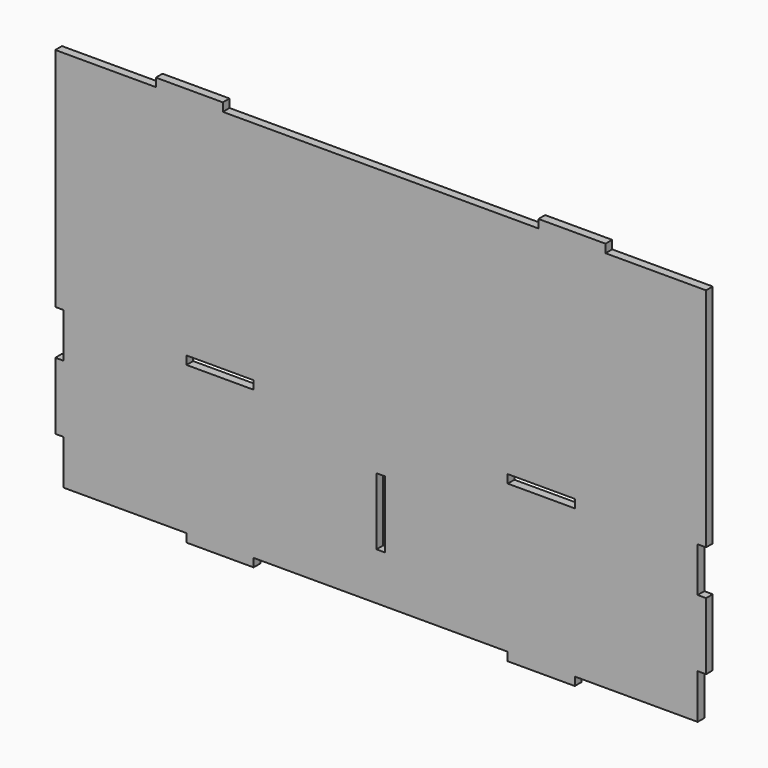
from build123d import *

# Parameters (mm, degrees)
F0_W     = 19.05
F0_H     = 152.4
F0_W_2   = 152.4
F0_H_2   = 19.05
F1_DEPTH = 19.05


with BuildPart() as f1:
    # F0 (on Front) → F1 (new body)
    with BuildSketch(Plane.XZ):
        with Locations((-693.232657, -177.8)):
            Rectangle(F0_W, F0_H)
        with Locations((767.267343, -177.8)):
            Rectangle(F0_W, F0_H)
        with Locations((-328.107657, -365.125)):
            Rectangle(F0_W_2, F0_H_2)
        with Locations((402.142343, -365.125)):
            Rectangle(F0_W_2, F0_H_2)
        Polygon((-683.707657, -254), (-683.707657, -355.6), (-404.307657, -355.6), (-251.907657, -355.6), (325.942343, -355.6), (478.342343, -355.6), (757.742343, -355.6), (757.742343, -254), (757.742343, -101.6), (757.742343, 0), (776.792343, 0), (776.792343, 514.35), (548.192343, 514.35), (395.792343, 514.35), (-321.757657, 514.35), (-474.157657, 514.35), (-702.757657, 514.35), (-702.757657, 0), (-683.707657, 0), (-683.707657, -101.6), align=None)
        with Locations((37.017343, -171.45)):
            Rectangle(F0_W, F0_H, mode=Mode.SUBTRACT)
        with Locations((-328.107657, -9.525)):
            Rectangle(F0_W_2, F0_H_2, mode=Mode.SUBTRACT)
        with Locations((402.142343, -9.525)):
            Rectangle(F0_W_2, F0_H_2, mode=Mode.SUBTRACT)
        with Locations((-397.957657, 523.875)):
            Rectangle(F0_W_2, F0_H_2)
        with Locations((471.992343, 523.875)):
            Rectangle(F0_W_2, F0_H_2)
    extrude(amount=F1_DEPTH)


solid = f1.part
